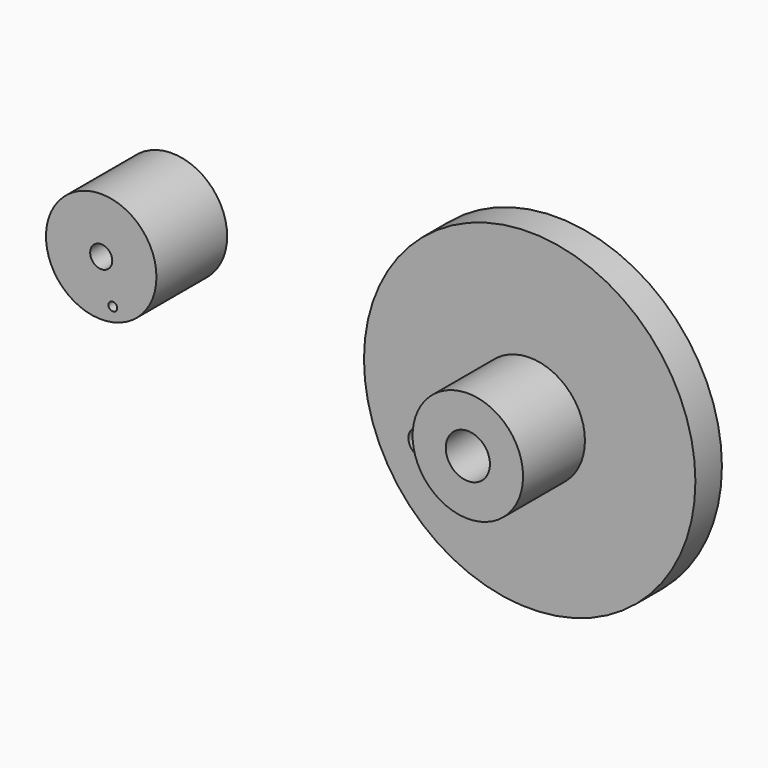
from build123d import *

# Parameters (mm, degrees)
F0_R     = 2.5
F0_R_2   = 0.5
F1_DEPTH = 4
F2_R     = 7.5
F2_R_2   = 0.579106
F2_R_3   = 1
F3_DEPTH = 1.5
F4_R     = 2.5
F4_R_2   = 1
F5_DEPTH = 3.5
F6_R     = 0.19797
F7_DEPTH = 5.001


with BuildPart() as f1:
    # F0 (on Front) → F1 (new body)
    with BuildSketch(Plane.XZ):
        Circle(F0_R)
        Circle(F0_R_2, mode=Mode.SUBTRACT)
    extrude(amount=F1_DEPTH)

    # F6 (on face) → F7 (cut, through all)
    with BuildSketch(Plane(origin=(0, 0, 0), x_dir=(-1, 0, 0), z_dir=(0, 1, 0))):
        with Locations((-0.525748, -1.815386)):
            Circle(F6_R)
    extrude(amount=-F7_DEPTH, mode=Mode.SUBTRACT)


with BuildPart() as f3:
    # F2 (on Front) → F3 (new body)
    with BuildSketch(Plane.XZ):
        with Locations((17.39296, -1.879622)):
            Circle(F2_R)
        with Locations((12.479952, -4.374151)):
            Circle(F2_R_2, mode=Mode.SUBTRACT)
        with Locations((17.39296, -1.879622)):
            Circle(F2_R_3, mode=Mode.SUBTRACT)
    extrude(amount=F3_DEPTH)

    # F4 (on face) → F5 (join)
    with BuildSketch(Plane.XZ.offset(1.5)):
        with Locations((17.39296, -1.879622)):
            Circle(F4_R)
        with Locations((17.39296, -1.879622)):
            Circle(F4_R_2, mode=Mode.SUBTRACT)
    extrude(amount=F5_DEPTH)


solid = Compound([f1.part, f3.part])
